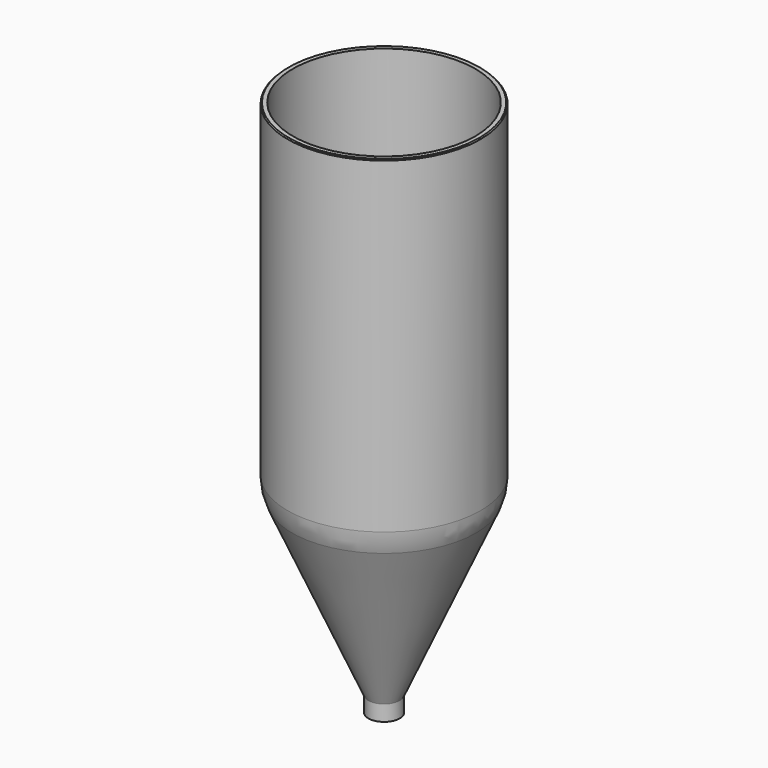
from build123d import *

# Parameters (mm, degrees)
F0_R      = 3
F0_R_2    = 2
F1_DEPTH  = 3
F7_R      = 18.5
F7_R_2    = 17.5
F8_DEPTH  = 55
F9_R      = 10
F10_R     = 18.5
F10_R_2   = 17.5
F11_DEPTH = 10
F12_SIZE  = 0.2


with BuildPart() as f1:
    # F0 (on Top) → F1 (new body)
    with BuildSketch(Plane.XY):
        Circle(F0_R)
        Circle(F0_R_2, mode=Mode.SUBTRACT)
    extrude(amount=F1_DEPTH)


with BuildPart() as f6:
    # F5 (on Front) → F6 (revolve)
    with BuildSketch(Plane.XZ):
        Polygon((2, 3), (3, 3), (18.5, 38), (17.5, 38), align=None)
    revolve(axis=Axis((0, 0, 13.0933627952), (0, 0, -1)))

    # F7 (on face) → F8 (join)
    with BuildSketch(Plane.XY.offset(38)):
        Circle(F7_R)
        Circle(F7_R_2, mode=Mode.SUBTRACT)
    extrude(amount=F8_DEPTH)

    # F9
    f9_edges = [f6.edges().sort_by_distance(p)[0] for p in [
        (-18.5, 0, 38),
        (-17.5, 0, 38),
    ]]
    fillet(f9_edges, radius=F9_R)

    # F10 (on face) → F11 (join)
    with BuildSketch(Plane.XY.offset(93)):
        Circle(F10_R)
        Circle(F10_R_2, mode=Mode.SUBTRACT)
    extrude(amount=F11_DEPTH)

    # F12
    f12_edges = [f6.edges().sort_by_distance(p)[0] for p in [
        (-18.5, 0, 103),
    ]]
    chamfer(f12_edges, length=F12_SIZE)


solid = Compound([f1.part, f6.part])
